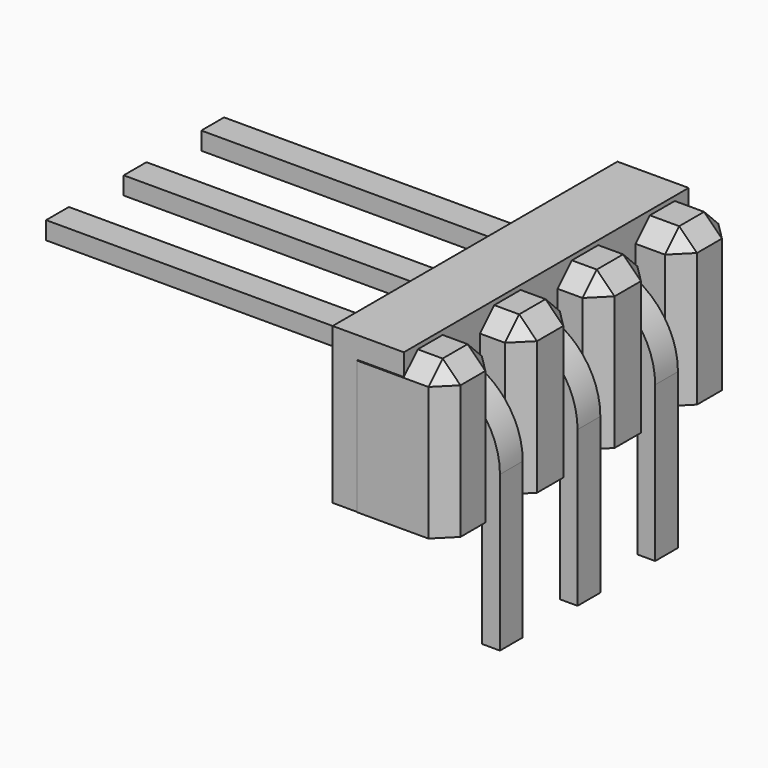
from build123d import *

# Parameters (mm, degrees)
BOX008_W                  = 1.6
BOX008_H                  = 8
BOX008_DEPTH              = 3.5
BOX004_W                  = 1.54
BOX004_H                  = 2
BOX004_DEPTH              = 3.4
CHAMFER002_SIZE           = 0.4
BOX007_W                  = 1.5
BOX007_H                  = 2
BOX007_DEPTH              = 3.4
CHAMFER005_SIZE           = 0.4
BOX005_W                  = 1.54
BOX005_H                  = 2
BOX005_DEPTH              = 3.4
CHAMFER003_SIZE           = 0.4
BOX006_W                  = 1.5
BOX006_H                  = 2
BOX006_DEPTH              = 3.4
CHAMFER004_SIZE           = 0.4
SKETCH002_W               = 0.64
SKETCH002_H               = 0.4
ARRAY001_X_COUNT          = 3
ARRAY001_X_PITCH          = 2.18
FUSION001_PLACEMENT_ANGLE = -90


with BuildPart() as cubo008:
    # Box008 → Box008 (new body)
    with BuildSketch(Plane(origin=(-9.36, -4.13, 1.7), x_dir=(1, 0, 0), z_dir=(0, 0, 1))):
        with Locations((0.8, 4)):
            Rectangle(BOX008_W, BOX008_H)
    extrude(amount=BOX008_DEPTH)


with BuildPart() as chamfer002:
    # Box004 → Box004 (new body)
    with BuildSketch(Plane(origin=(-2.93, -3.3, 0.2), x_dir=(1, 0, 0), z_dir=(0, 0, 1))):
        with Locations((0.77, 1)):
            Rectangle(BOX004_W, BOX004_H)
    extrude(amount=BOX004_DEPTH)

    # Chamfer002
    chamfer002_edges = [chamfer002.edges().sort_by_distance(p)[0] for p in [
        (-2.93, -2.3, 3.6),
        (-2.93, -1.3, 1.9),
        (-1.39, -2.3, 3.6),
        (-1.39, -1.3, 1.9),
        (-2.16, -1.3, 3.6),
    ]]
    chamfer(chamfer002_edges, length=CHAMFER002_SIZE)


with BuildPart() as chamfer002_1:
    # Chamfer002 placement: moved
    add(chamfer002.part.moved(Location((3.2, 1.5, 1.5))))


with BuildPart() as chamfer005:
    # Box007 → Box007 (new body)
    with BuildSketch(Plane(origin=(-1.14, -16.5, 1.4), x_dir=(1, 0, 0), z_dir=(0, 0, 1))):
        with Locations((0.75, 1)):
            Rectangle(BOX007_W, BOX007_H)
    extrude(amount=BOX007_DEPTH)

    # Chamfer005
    chamfer005_edges = [chamfer005.edges().sort_by_distance(p)[0] for p in [
        (-1.14, -15.5, 4.8),
        (-1.14, -14.5, 3.1),
        (0.36, -15.5, 4.8),
        (0.36, -14.5, 3.1),
        (-0.39, -14.5, 4.8),
    ]]
    chamfer(chamfer005_edges, length=CHAMFER005_SIZE)


with BuildPart() as chamfer005_1:
    # Chamfer005 placement: moved
    add(chamfer005.part.moved(Location((5.78, 14.7, 0.3))))


with BuildPart() as chamfer003:
    # Box005 → Box005 (new body)
    with BuildSketch(Plane(origin=(-2.93, -3.3, 0.2), x_dir=(1, 0, 0), z_dir=(0, 0, 1))):
        with Locations((0.77, 1)):
            Rectangle(BOX005_W, BOX005_H)
    extrude(amount=BOX005_DEPTH)

    # Chamfer003
    chamfer003_edges = [chamfer003.edges().sort_by_distance(p)[0] for p in [
        (-2.93, -2.3, 3.6),
        (-2.93, -1.3, 1.9),
        (-1.39, -2.3, 3.6),
        (-1.39, -1.3, 1.9),
        (-2.16, -1.3, 3.6),
    ]]
    chamfer(chamfer003_edges, length=CHAMFER003_SIZE)


with BuildPart() as chamfer003_1:
    # Chamfer003 placement: moved
    add(chamfer003.part.moved(Location((5.38, 1.5, 1.5))))


with BuildPart() as chamfer004:
    # Box006 → Box006 (new body)
    with BuildSketch(Plane(origin=(-1.14, -16.5, 1.4), x_dir=(1, 0, 0), z_dir=(0, 0, 1))):
        with Locations((0.75, 1)):
            Rectangle(BOX006_W, BOX006_H)
    extrude(amount=BOX006_DEPTH)

    # Chamfer004
    chamfer004_edges = [chamfer004.edges().sort_by_distance(p)[0] for p in [
        (-1.14, -15.5, 4.8),
        (-1.14, -14.5, 3.1),
        (0.36, -15.5, 4.8),
        (0.36, -14.5, 3.1),
        (-0.39, -14.5, 4.8),
    ]]
    chamfer(chamfer004_edges, length=CHAMFER004_SIZE)


with BuildPart() as chamfer004_1:
    # Chamfer004 placement: moved
    add(chamfer004.part.moved(Location((-0.74, 14.8, 0.3))))


with BuildPart() as male_conector:
    # Sweep: sweep along a path in Sketch003
    with BuildLine(Plane.YZ) as sweep_path:
        Line((0, 0), (0, 3.48702))
        ThreePointArc((0, 3.48702), (-0.443142, 4.556858), (-1.51298, 5))
        Line((-1.51298, 5), (-10, 5))
    # Sketch002 → Sweep (sweep)
    with BuildSketch(Plane.XY):
        Rectangle(SKETCH002_W, SKETCH002_H)
    sweep(path=sweep_path.line)


with BuildPart() as male_conector_1:
    # Sweep placement: moved
    add(male_conector.part.moved(Location((-0.05, 0, -1))))

    # Array001 X: male-conector ×3


with BuildPart() as male_conector_2:
    add(male_conector_1.part)
    with Locations(*[(i * ARRAY001_X_PITCH, 0, 0) for i in range(1, ARRAY001_X_COUNT)]):
        add(male_conector_1.part)

    # Fusion001: union Chamfer002, Chamfer005, Chamfer003, Chamfer004
    add(chamfer002_1.part)
    add(chamfer005_1.part)
    add(chamfer003_1.part)
    add(chamfer004_1.part)


with BuildPart() as male_conector_3:
    # Fusion001 placement: moved
    add(male_conector_2.part.moved(Location((-7, 2, 0))).rotate(Axis((-7, 2, 0), (0, 0, 1)), FUSION001_PLACEMENT_ANGLE))

    # Fusion002: union Cubo008
    add(cubo008.part)


solid = male_conector_3.part
